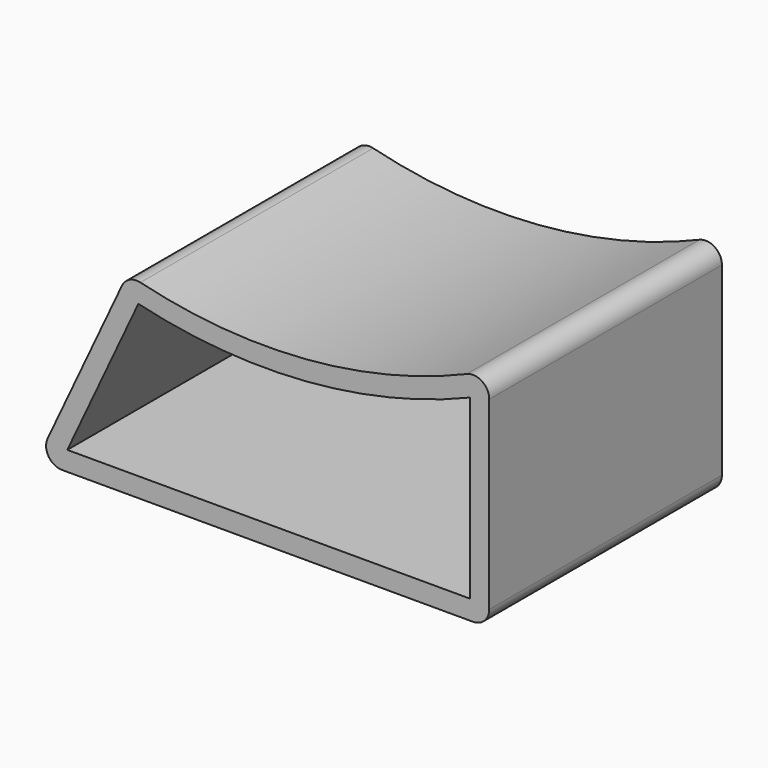
from build123d import *

# Parameters (mm, degrees)
F1_DEPTH = 114.3


with BuildPart() as f1:
    # F0 (on Front) → F1 (new body)
    with BuildSketch(Plane.XZ):
        with BuildLine():
            Line((-78.912972, -44.45), (82.55, -44.45))
            ThreePointArc((82.55, -44.45), (87.040128, -42.590128), (88.9, -38.1))
            Line((88.9, -38.1), (88.9, 34.618701))
            ThreePointArc((88.9, 34.618701), (86.058083, 39.911702), (80.076108, 40.466979))
            ThreePointArc((80.076108, 40.466979), (16.771765, 25.031794), (-48.163408, 30.426984))
            ThreePointArc((-48.163408, 30.426984), (-52.42688, 29.998216), (-55.447289, 26.958781))
            Line((-55.447289, 26.958781), (-84.66326, -35.406176))
            ThreePointArc((-84.66326, -35.406176), (-84.27153, -41.507104), (-78.912972, -44.45))
        make_face()
        with BuildLine():
            ThreePointArc((-48.988955, 22.782667), (16.934084, 17.401632), (81.28, 32.711942))
            Line((81.28, 32.711942), (81.28, -36.83))
            Line((81.28, -36.83), (-76.915567, -36.83))
            Line((-76.915567, -36.83), (-48.988955, 22.782667))
        make_face(mode=Mode.SUBTRACT)
    extrude(amount=F1_DEPTH)


solid = f1.part
